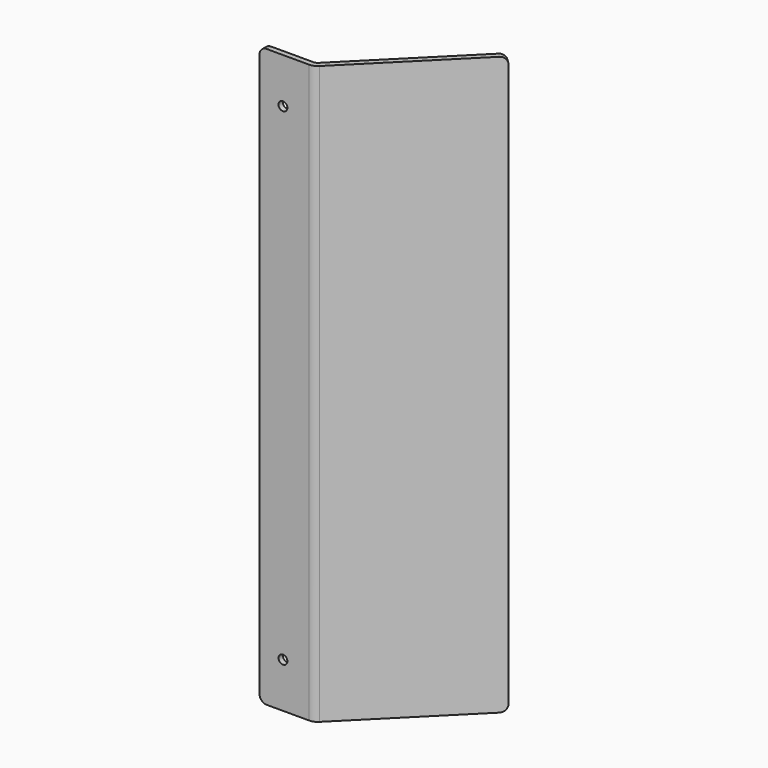
from build123d import *

# Parameters (mm, degrees)
PAD_DEPTH    = 160
FILLET_R     = 1.5
FILLET001_R  = 3
FILLET002_R  = 2
SKETCH001_R  = 1.23
POCKET_DEPTH = 5


with BuildPart() as part:
    # Sketch → Pad (new body)
    with BuildSketch(Plane.XY):
        Polygon((-33.84, -7.26), (-19.46132, -7.26), (10.09968, 22.301), (11.16034, 21.24034), (-18.84, -8.76), (-33.84, -8.76), align=None)
    extrude(amount=PAD_DEPTH)

    # Fillet
    fillet_edges = [part.edges().sort_by_distance(p)[0] for p in [
        (-19.46132, -7.26, 80),
    ]]
    fillet(fillet_edges, radius=FILLET_R)

    # Fillet001
    fillet001_edges = [part.edges().sort_by_distance(p)[0] for p in [
        (-18.84, -8.76, 80),
    ]]
    fillet(fillet001_edges, radius=FILLET001_R)

    # Fillet002
    fillet002_edges = [part.edges().sort_by_distance(p)[0] for p in [
        (10.63001, 21.77067, 160),
        (-33.84, -8.01, 160),
        (-33.84, -8.01, 0),
        (10.63001, 21.77067, 0),
    ]]
    fillet(fillet002_edges, radius=FILLET002_R)

    # Sketch001 → Pocket (cut)
    with BuildSketch(Plane.XZ.offset(8.76)):
        with Locations((-27.34, 12.5)):
            Circle(SKETCH001_R)
        with Locations((-27.34, 147.5)):
            Circle(SKETCH001_R)
    extrude(amount=-POCKET_DEPTH, mode=Mode.SUBTRACT)


solid = part.part
